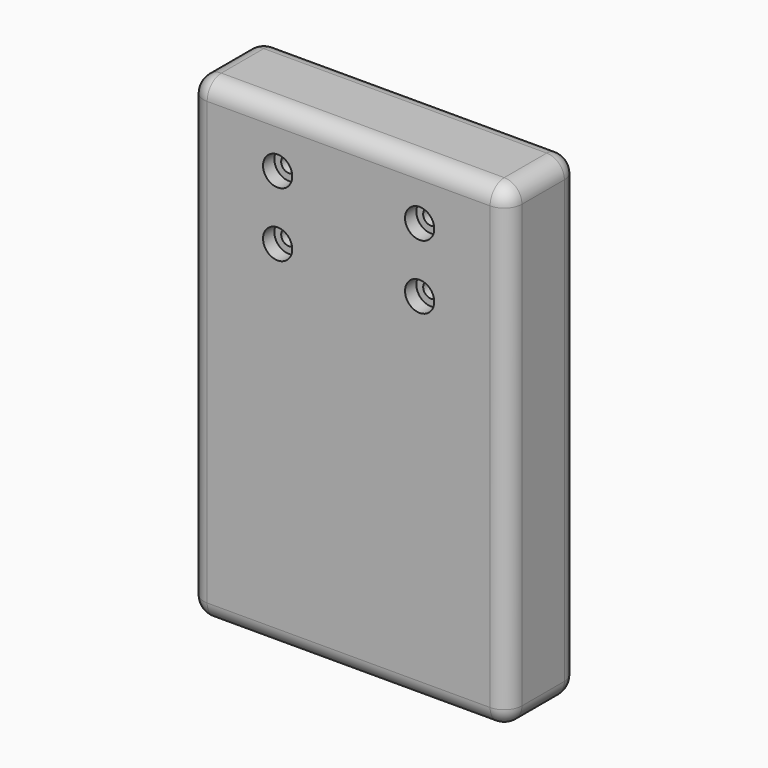
from build123d import *

# Parameters (mm, degrees)
F1_DEPTH       = 25
F3_DEPTH       = 5.78
F4_DEPTH       = 11.78
F5_R           = 5
F6_R           = 5
F8_D           = 4.4
F8_CBORE_D     = 8.25
F8_CBORE_DEPTH = 4


with BuildPart() as f1:
    # F0 (on Front) → F1 (new body)
    with BuildSketch(Plane.XZ):
        with BuildLine():
            Line((40, 10), (-40, 10))
            ThreePointArc((-40, 10), (-43.5355339059, 8.5355339059), (-45, 5))
            Line((-45, 5), (-45, -119.86))
            ThreePointArc((-45, -119.86), (-43.5355339059, -123.3955339059), (-40, -124.86))
            Line((-40, -124.86), (40, -124.86))
            ThreePointArc((40, -124.86), (43.5355339059, -123.3955339059), (45, -119.86))
            Line((45, -119.86), (45, 5))
            ThreePointArc((45, 5), (43.5355339059, 8.5355339059), (40, 10))
        make_face()
    extrude(amount=F1_DEPTH)

    # F2 (on Front) → F3 (cut)
    with BuildSketch(Plane.XZ):
        Polygon((24.46, 0), (-24.46, 0), (-24.46, -17.86), (-26.955, -17.86), (-26.955, -29.86), (26.955, -29.86), (26.955, -17.86), (24.46, -17.86), align=None)
        with BuildLine():
            ThreePointArc((-20.075, -9.605), (-22.7266504294, -3.2033495706), (-16.325, -5.855))
            Line((-16.325, -5.855), (16.325, -5.855))
            ThreePointArc((16.325, -5.855), (20.075, -2.105), (23.825, -5.855))
            ThreePointArc((23.825, -5.855), (22.7266504294, -8.5066504294), (20.075, -9.605))
            Line((20.075, -9.605), (20.075, -20.255))
            ThreePointArc((20.075, -20.255), (22.7266504294, -21.3533495706), (23.825, -24.005))
            ThreePointArc((23.825, -24.005), (20.075, -27.755), (16.325, -24.005))
            Line((16.325, -24.005), (-16.325, -24.005))
            ThreePointArc((-16.325, -24.005), (-22.7266504294, -26.6566504294), (-20.075, -20.255))
            Line((-20.075, -20.255), (-20.075, -9.605))
        make_face(mode=Mode.SUBTRACT)
        with BuildLine():
            Line((16.325, -5.855), (-16.325, -5.855))
            ThreePointArc((-16.325, -5.855), (-17.4233495706, -8.5066504294), (-20.075, -9.605))
            Line((-20.075, -9.605), (-20.075, -20.255))
            ThreePointArc((-20.075, -20.255), (-17.4233495706, -21.3533495706), (-16.325, -24.005))
            Line((-16.325, -24.005), (16.325, -24.005))
            ThreePointArc((16.325, -24.005), (17.4233495706, -21.3533495706), (20.075, -20.255))
            Line((20.075, -20.255), (20.075, -9.605))
            ThreePointArc((20.075, -9.605), (17.4233495706, -8.5066504294), (16.325, -5.855))
        make_face()
    extrude(amount=F3_DEPTH, mode=Mode.SUBTRACT)

    # F2 (on Front) → F4 (cut, through all)
    with BuildSketch(Plane.XZ):
        with BuildLine():
            Line((-16.325, -5.855), (-18.45, -5.855))
            ThreePointArc((-18.45, -5.855), (-18.9259514806, -7.0040485194), (-20.075, -7.48))
            Line((-20.075, -7.48), (-20.075, -9.605))
            ThreePointArc((-20.075, -9.605), (-17.4233495706, -8.5066504294), (-16.325, -5.855))
        make_face()
        with BuildLine():
            Line((-18.45, -5.855), (-20.075, -5.855))
            Line((-20.075, -5.855), (-20.075, -7.48))
            ThreePointArc((-20.075, -7.48), (-18.9259514806, -7.0040485194), (-18.45, -5.855))
        make_face()
        with BuildLine():
            Line((-20.075, -7.48), (-20.075, -5.855))
            Line((-20.075, -5.855), (-18.45, -5.855))
            ThreePointArc((-18.45, -5.855), (-21.2240485194, -4.7059514806), (-20.075, -7.48))
        make_face()
        with BuildLine():
            ThreePointArc((-20.075, -7.48), (-21.2240485194, -4.7059514806), (-18.45, -5.855))
            Line((-18.45, -5.855), (-16.325, -5.855))
            ThreePointArc((-16.325, -5.855), (-22.7266504294, -3.2033495706), (-20.075, -9.605))
            Line((-20.075, -9.605), (-20.075, -7.48))
        make_face()
        with BuildLine():
            ThreePointArc((-16.325, -24.005), (-17.4233495706, -21.3533495706), (-20.075, -20.255))
            Line((-20.075, -20.255), (-20.075, -22.38))
            ThreePointArc((-20.075, -22.38), (-18.9259514806, -22.8559514806), (-18.45, -24.005))
            Line((-18.45, -24.005), (-16.325, -24.005))
        make_face()
        with BuildLine():
            ThreePointArc((-18.45, -24.005), (-18.9259514806, -22.8559514806), (-20.075, -22.38))
            Line((-20.075, -22.38), (-20.075, -24.005))
            Line((-20.075, -24.005), (-18.45, -24.005))
        make_face()
        with BuildLine():
            Line((-20.075, -22.38), (-20.075, -20.255))
            ThreePointArc((-20.075, -20.255), (-22.7266504294, -26.6566504294), (-16.325, -24.005))
            Line((-16.325, -24.005), (-18.45, -24.005))
            ThreePointArc((-18.45, -24.005), (-21.2240485194, -25.1540485194), (-20.075, -22.38))
        make_face()
        with BuildLine():
            Line((-20.075, -24.005), (-20.075, -22.38))
            ThreePointArc((-20.075, -22.38), (-21.2240485194, -25.1540485194), (-18.45, -24.005))
            Line((-18.45, -24.005), (-20.075, -24.005))
        make_face()
        with BuildLine():
            Line((18.45, -5.855), (16.325, -5.855))
            ThreePointArc((16.325, -5.855), (17.4233495706, -8.5066504294), (20.075, -9.605))
            Line((20.075, -9.605), (20.075, -7.48))
            ThreePointArc((20.075, -7.48), (18.9259514806, -7.0040485194), (18.45, -5.855))
        make_face()
        with BuildLine():
            Line((20.075, -5.855), (18.45, -5.855))
            ThreePointArc((18.45, -5.855), (18.9259514806, -7.0040485194), (20.075, -7.48))
            Line((20.075, -7.48), (20.075, -5.855))
        make_face()
        with BuildLine():
            ThreePointArc((23.825, -5.855), (20.075, -2.105), (16.325, -5.855))
            Line((16.325, -5.855), (18.45, -5.855))
            ThreePointArc((18.45, -5.855), (20.075, -4.23), (21.7, -5.855))
            ThreePointArc((21.7, -5.855), (21.2240485194, -7.0040485194), (20.075, -7.48))
            Line((20.075, -7.48), (20.075, -9.605))
            ThreePointArc((20.075, -9.605), (22.7266504294, -8.5066504294), (23.825, -5.855))
        make_face()
        with BuildLine():
            ThreePointArc((21.7, -5.855), (20.075, -4.23), (18.45, -5.855))
            Line((18.45, -5.855), (20.075, -5.855))
            Line((20.075, -5.855), (20.075, -7.48))
            ThreePointArc((20.075, -7.48), (21.2240485194, -7.0040485194), (21.7, -5.855))
        make_face()
        with BuildLine():
            Line((20.075, -22.38), (20.075, -20.255))
            ThreePointArc((20.075, -20.255), (17.4233495706, -21.3533495706), (16.325, -24.005))
            Line((16.325, -24.005), (18.45, -24.005))
            ThreePointArc((18.45, -24.005), (18.9259514806, -22.8559514806), (20.075, -22.38))
        make_face()
        with BuildLine():
            Line((20.075, -24.005), (20.075, -22.38))
            ThreePointArc((20.075, -22.38), (18.9259514806, -22.8559514806), (18.45, -24.005))
            Line((18.45, -24.005), (20.075, -24.005))
        make_face()
        with BuildLine():
            ThreePointArc((21.7, -24.005), (21.2240485194, -22.8559514806), (20.075, -22.38))
            Line((20.075, -22.38), (20.075, -24.005))
            Line((20.075, -24.005), (18.45, -24.005))
            ThreePointArc((18.45, -24.005), (20.075, -25.63), (21.7, -24.005))
        make_face()
        with BuildLine():
            ThreePointArc((23.825, -24.005), (22.7266504294, -21.3533495706), (20.075, -20.255))
            Line((20.075, -20.255), (20.075, -22.38))
            ThreePointArc((20.075, -22.38), (21.2240485194, -22.8559514806), (21.7, -24.005))
            ThreePointArc((21.7, -24.005), (20.075, -25.63), (18.45, -24.005))
            Line((18.45, -24.005), (16.325, -24.005))
            ThreePointArc((16.325, -24.005), (20.075, -27.755), (23.825, -24.005))
        make_face()
    extrude(amount=F4_DEPTH, mode=Mode.SUBTRACT)

    # F5
    f5_edges = [f1.edges().sort_by_distance(p)[0] for p in [
        (0, 0, -124.86),
        (-43.535534, 0, -123.395534),
        (43.535534, 0, -123.395534),
        (45, 0, -57.43),
        (-45, 0, -57.43),
        (0, 0, 10),
        (-43.535534, 0, 8.535534),
        (43.535534, 0, 8.535534),
    ]]
    fillet(f5_edges, radius=F5_R)

    # F6
    f6_edges = [f1.edges().sort_by_distance(p)[0] for p in [
        (0, -25, -124.86),
    ]]
    fillet(f6_edges, radius=F6_R)

    # F8 (through all)
    with Locations(Plane.XZ.offset(25)):
        with Locations((-20.075, -24.005), (-20.075, -5.855), (20.075, -5.855), (20.075, -24.005)):
            CounterBoreHole(F8_D / 2, F8_CBORE_D / 2, F8_CBORE_DEPTH)


solid = f1.part
